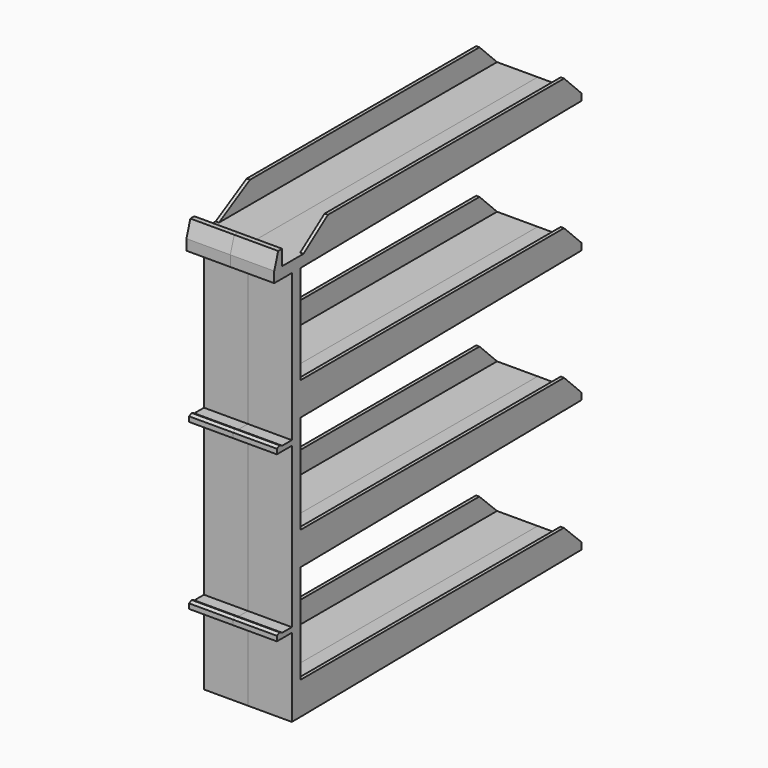
from build123d import *

# Parameters (mm, degrees)
F1_DEPTH  = 20
F3_DEPTH  = 20
F5_DEPTH  = 20
F7_DEPTH  = 20
F9_DEPTH  = 1.5
F12_DEPTH = 1.5
F14_DEPTH = 1.5


with BuildPart() as f1:
    # F0 (on Right) → F1 (new body)
    with BuildSketch(Plane.YZ):
        Polygon((0, 67), (0, 0), (-5.5, 0), (-5.5, 0.75), (-8.5, 0.75), (-8.5, -2.25), (0, -2.25), (0, -58.026318), (0, -75), (-5.5, -75), (-5.5, -74.25), (-8.5, -74.25), (-8.5, -77.25), (0, -77.25), (0, -113), (5, -113), (165, -111), (165, -108), (5, -108), (5, -53), (165, -51), (165, -48), (5, -48), (5, 7), (165, 9), (165, 12), (5, 12), (5, 67), (165, 69), (165, 72), (5, 72), (-5.5, 72), (-5.5, 79), (-10, 79), (-10, 67), align=None)
    extrude(amount=F1_DEPTH)

    # F2 (on face) → F3 (cut, through all)
    with BuildSketch(Plane.YZ.offset(20)):
        Polygon((-10, 71.884051), (-7.75, 79), (-10, 79), align=None)
    extrude(amount=-F3_DEPTH, mode=Mode.SUBTRACT)

    # F4 (on face) → F5 (cut, through all)
    with BuildSketch(Plane.YZ.offset(20)):
        Polygon((-8.5, 0), (-7, 0.75), (-8.5, 0.75), align=None)
        Polygon((-7, 0.75), (-5.5, 0), (-5.5, 0.75), align=None)
    extrude(amount=-F5_DEPTH, mode=Mode.SUBTRACT)

    # F6 (on face) → F7 (cut, through all)
    with BuildSketch(Plane.YZ.offset(20)):
        Polygon((-8.5, -75), (-7, -74.25), (-8.5, -74.25), align=None)
        Polygon((-7, -74.25), (-5.5, -75), (-5.5, -74.25), align=None)
    extrude(amount=-F7_DEPTH, mode=Mode.SUBTRACT)

    # F8 (on face) → F9 (join)
    with BuildSketch(Plane.YZ.offset(20)):
        Polygon((6.638868, 72), (165, 72), (155, 82), (6.638868, 82), align=None)
        Polygon((155, 22), (5, 22), (5, 12), (165, 12), align=None)
        Polygon((155, -38), (5, -38), (5, -48), (165, -48), align=None)
        Polygon((154.875791, -98.125771), (5, -98.125771), (5, -108), (165, -108), align=None)
    extrude(amount=-F9_DEPTH)

    # F11 (on face) → F12 (cut, through all)
    with BuildSketch(Plane.YZ.offset(20)):
        Polygon((6.638868, 82), (6.638868, 72), (20.546054, 82), align=None)
    extrude(amount=-F12_DEPTH, mode=Mode.SUBTRACT)


with BuildPart() as f10_1:
    # F10: instance of F1
    add(f1.part.mirror(Plane.YZ))

    # F13 (on face) → F14 (cut, through all)
    with BuildSketch(Plane(origin=(-20, 0, 0), x_dir=(0, -1, 0), z_dir=(-1, 0, 0))):
        Polygon((-24.294946, 82), (-6.638868, 72), (-20.546054, 82), align=None)
    extrude(amount=-F14_DEPTH, mode=Mode.SUBTRACT)


solid = Compound([f1.part, f10_1.part])
